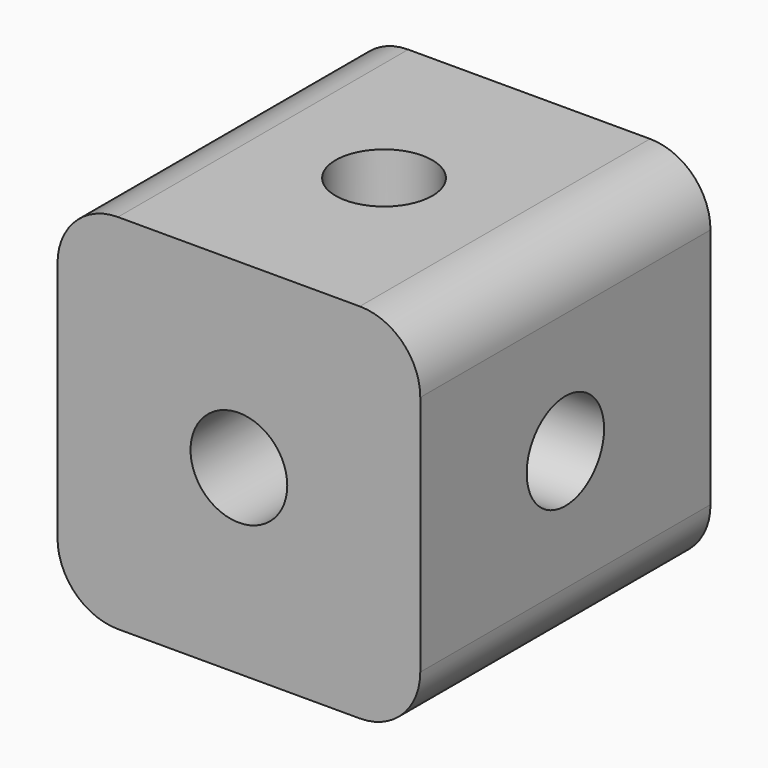
from build123d import *

# Parameters (mm, degrees)
F0_W     = 76.2
F0_H     = 76.2
F1_DEPTH = 76.2
F2_R     = 12.7
F3_R     = 10.16
F4_DEPTH = 76.201
F5_R     = 10.16
F6_DEPTH = 76.201
F7_R     = 10.16
F8_DEPTH = 76.201


with BuildPart() as f1:
    # F0 (on Front) → F1 (new body)
    with BuildSketch(Plane.XZ):
        with Locations((-38.1, 38.1)):
            Rectangle(F0_W, F0_H)
    extrude(amount=F1_DEPTH)

    # F2
    f2_edges = [f1.edges().sort_by_distance(p)[0] for p in [
        (0, -38.1, 76.2),
        (-76.2, -38.1, 76.2),
        (0, -38.1, 0),
        (-76.2, -38.1, 0),
    ]]
    fillet(f2_edges, radius=F2_R)

    # F3 (on face) → F4 (cut, through all)
    with BuildSketch(Plane.XZ.offset(76.2)):
        with Locations((-38.1, 38.1)):
            Circle(F3_R)
    extrude(amount=-F4_DEPTH, mode=Mode.SUBTRACT)

    # F5 (on face) → F6 (cut, through all)
    with BuildSketch(Plane.YZ):
        with Locations((-38.1, 38.1)):
            Circle(F5_R)
    extrude(amount=-F6_DEPTH, mode=Mode.SUBTRACT)

    # F7 (on face) → F8 (cut, through all)
    with BuildSketch(Plane.XY.offset(76.2)):
        with Locations((-38.1, -38.1)):
            Circle(F7_R)
    extrude(amount=-F8_DEPTH, mode=Mode.SUBTRACT)


solid = f1.part
